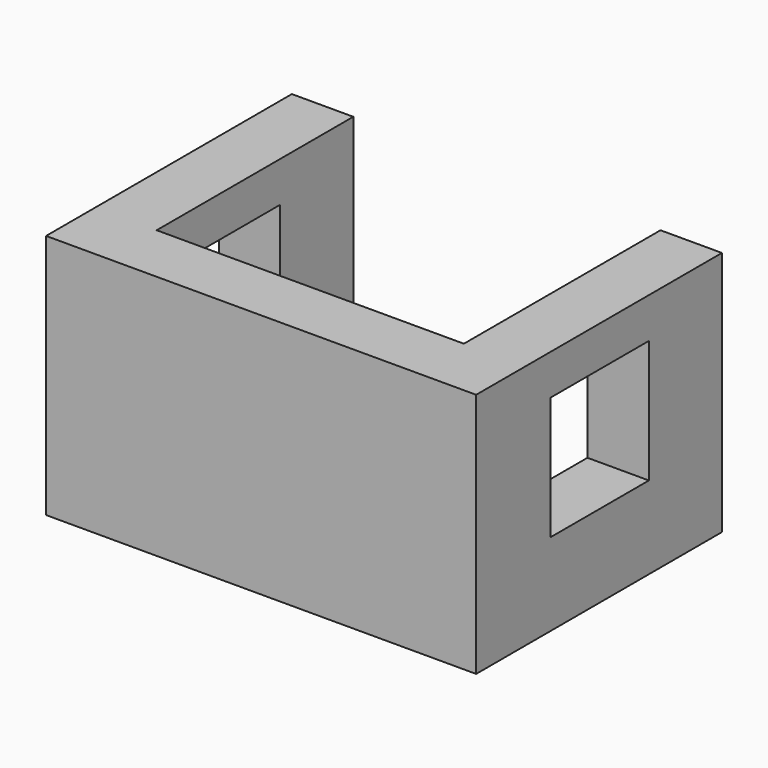
from build123d import *

# Parameters (mm, degrees)
F1_DEPTH = 50.8
F2_W     = 25.4
F2_H     = 25.4
F3_DEPTH = 104.648


with BuildPart() as f1:
    # F0 (on Top) → F1 (new body)
    with BuildSketch(Plane.XY):
        Polygon((-55.006877, 50.8), (-55.006877, -12.7), (33.893123, -12.7), (33.893123, 50.8), (21.193123, 50.8), (21.193123, 0), (-42.306877, 0), (-42.306877, 50.8), align=None)
    extrude(amount=F1_DEPTH)

    # F2 (on face) → F3 (cut)
    with BuildSketch(Plane.YZ.offset(33.893123)):
        with Locations((19.229054, 29.765626)):
            Rectangle(F2_W, F2_H)
    extrude(amount=-F3_DEPTH, mode=Mode.SUBTRACT)


solid = f1.part
